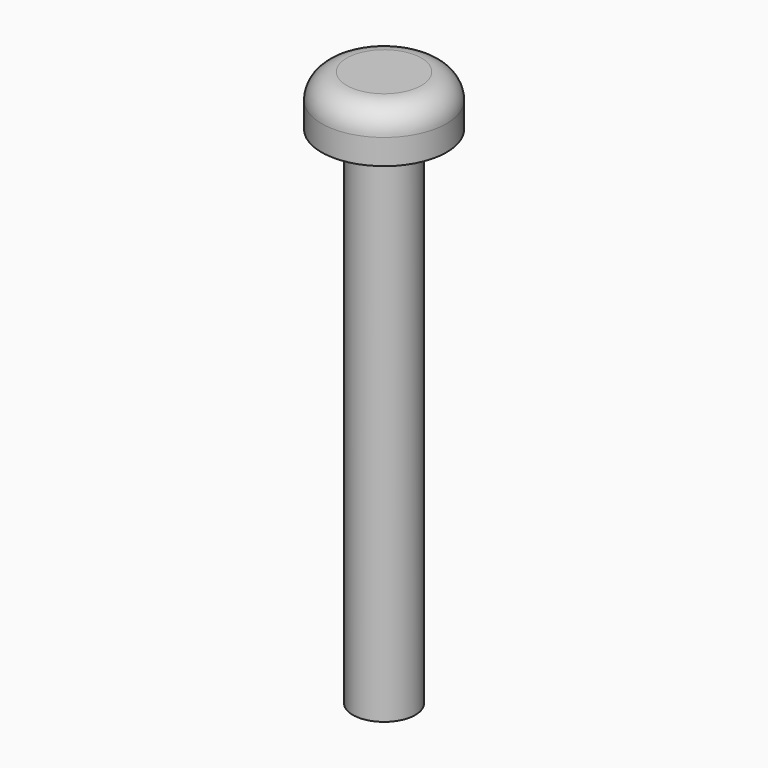
from build123d import *

# Parameters (mm, degrees)
F0_R     = 4.95
F1_DEPTH = 4
F2_R     = 2
F3_R     = 2.475
F4_DEPTH = 25
F5_DEPTH = 40


with BuildPart() as f1:
    # F0 (on Top) → F1 (new body)
    with BuildSketch(Plane.XY):
        Circle(F0_R)
    extrude(amount=F1_DEPTH)

    # F2
    f2_edges = [f1.edges().sort_by_distance(p)[0] for p in [
        (-4.95, 0, 4),
    ]]
    fillet(f2_edges, radius=F2_R)

    # F3 (on face) → F4 (join)
    with BuildSketch(Plane(origin=(0, 0, 0), x_dir=(1, 0, 0), z_dir=(0, 0, -1))):
        Circle(F3_R)
    extrude(amount=F4_DEPTH)

    # F3 (on face) → F5 (join)
    with BuildSketch(Plane(origin=(0, 0, 0), x_dir=(1, 0, 0), z_dir=(0, 0, -1))):
        Circle(F3_R)
    extrude(amount=F5_DEPTH)


solid = f1.part
